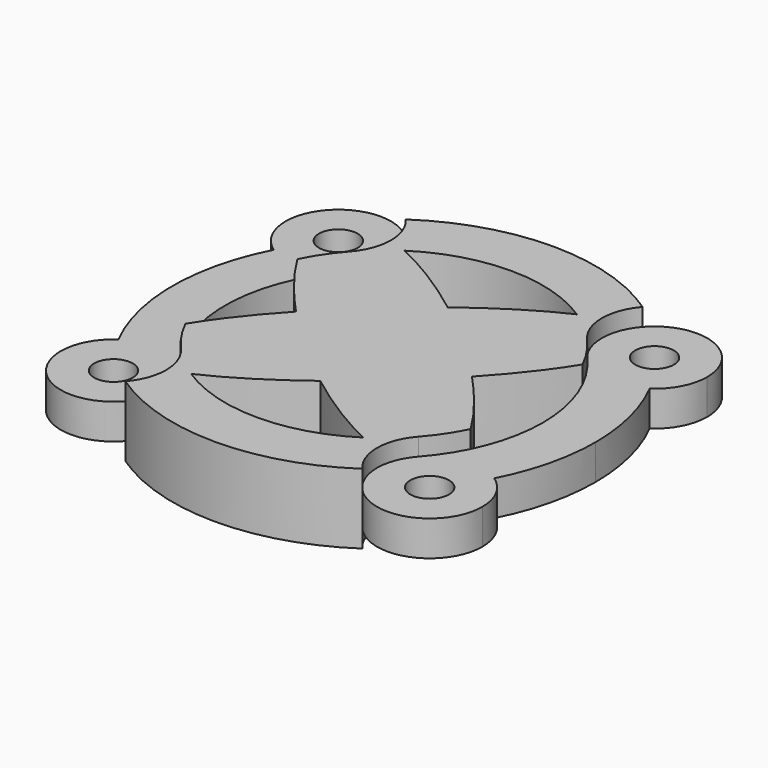
from build123d import *

# Parameters (mm, degrees)
F1_DEPTH = 25.4
F2_R     = 6.985
F3_DEPTH = 25.4
F4_R     = 6.985
F5_DEPTH = 6.35
F7_DEPTH = 6.35


with BuildPart() as f1:
    # F0 (on Top) → F1 (new body)
    with BuildSketch(Plane.XY):
        with BuildLine():
            ThreePointArc((-57.1499998878, 50.8000001262), (-50.3767956165, 57.5233949226), (-42.8188262114, 63.3506955122))
            ThreePointArc((-42.8188262114, 63.3506955122), (-71.3881475209, 63.4561311297), (-67.9339324093, 35.0962010395))
            ThreePointArc((-67.9339324093, 35.0962010395), (-63.0329267619, 43.2852474156), (-57.1499998878, 50.8000001262))
        make_face()
        with BuildLine():
            ThreePointArc((38.1017176106, 51.0558085491), (39.3641043227, 57.6238123477), (42.8188262114, 63.3506955122))
            ThreePointArc((42.8188262114, 63.3506955122), (0, 76.4641255753), (-42.8188262114, 63.3506955122))
            ThreePointArc((-42.8188262114, 63.3506955122), (-39.3641043227, 57.6238123477), (-38.1017176106, 51.0558085491))
            add(Edge.make_bspline(
                [(-31.1596419842, 48.223008274), (-34.8147724634, 49.9032857332), (-38.1017176106, 51.0558085491)],
                knots=[2.3797469471, 2.3797469471, 2.3797469471, 2.5253095942, 2.5253095942, 2.5253095942], degree=2, weights=[1, 0.9973526084, 1]))
            ThreePointArc((-31.1596419842, 48.223008274), (0, 57.4141255753), (31.1596419842, 48.223008274))
            add(Edge.make_bspline(
                [(38.1017176106, 51.0558085491), (34.8147724634, 49.9032857332), (31.1596419842, 48.223008274)],
                knots=[0.6162830594, 0.6162830594, 0.6162830594, 0.7618457065, 0.7618457065, 0.7618457065], degree=2, weights=[1, 0.9973526084, 1]))
        make_face()
        with BuildLine():
            ThreePointArc((67.9339324093, 35.0962010395), (74.0072894084, 41.9267653135), (76.2, 50.8))
            ThreePointArc((76.2, 50.8), (63.8542389324, 68.6313117952), (42.8188262114, 63.3506955122))
            ThreePointArc((42.8188262114, 63.3506955122), (50.37679568, 57.523394867), (57.15, 50.8))
            ThreePointArc((57.15, 50.8), (63.0329268097, 43.285247346), (67.9339324093, 35.0962010395))
        make_face()
        with BuildLine():
            ThreePointArc((55.1707974514, 31.8530937282), (61.8415086314, 32.3367325004), (67.9339324093, 35.0962010395))
            ThreePointArc((67.9339324093, 35.0962010395), (63.0329268097, 43.285247346), (57.15, 50.8))
            add(Edge.make_bspline(
                [(55.1707974514, 31.8530937282), (61.8495524076, 45.5130035415), (57.15, 50.8)],
                knots=[5.6669022478, 5.6669022478, 5.6669022478, 6.2831853072, 6.2831853072, 6.2831853072], degree=2, weights=[1, 0.9528988673, 1]))
        make_face()
        with BuildLine():
            ThreePointArc((57.15, 50.8), (50.37679568, 57.523394867), (42.8188262114, 63.3506955122))
            ThreePointArc((42.8188262114, 63.3506955122), (39.3641043227, 57.6238123477), (38.1017176106, 51.0558085491))
            add(Edge.make_bspline(
                [(57.15, 50.8), (52.4504475924, 56.0869964585), (38.1017176106, 51.0558085491)],
                knots=[0, 0, 0, 0.6162830594, 0.6162830594, 0.6162830594], degree=2, weights=[1, 0.9528988673, 1]))
        make_face()
        with BuildLine():
            ThreePointArc((42.9118518288, 38.1438696019), (39.2984970742, 44.1497110372), (38.1017176106, 51.0558085491))
            add(Edge.make_bspline(
                [(38.1017176106, 51.0558085491), (34.8147724634, 49.9032857332), (31.1596419842, 48.223008274)],
                knots=[0.6162830594, 0.6162830594, 0.6162830594, 0.7618457065, 0.7618457065, 0.7618457065], degree=2, weights=[1, 0.9973526084, 1]))
            ThreePointArc((31.1596419842, 48.223008274), (37.3770492149, 43.5813951999), (42.9118518288, 38.1438696019))
        make_face()
        with BuildLine():
            ThreePointArc((-38.1017176106, 51.0558085491), (-39.3641043227, 57.6238123477), (-42.8188262114, 63.3506955122))
            ThreePointArc((-42.8188262114, 63.3506955122), (-50.3767956165, 57.5233949226), (-57.1499998878, 50.8000001262))
            add(Edge.make_bspline(
                [(-38.1017176106, 51.0558085491), (-52.4504474039, 56.0869963924), (-57.1499998878, 50.8000001262)],
                knots=[2.5253095942, 2.5253095942, 2.5253095942, 3.141592646, 3.141592646, 3.141592646], degree=2, weights=[1, 0.9528988685, 1]))
        make_face()
        with BuildLine():
            add(Edge.make_bspline(
                [(-31.1596419842, 48.223008274), (-34.8147724634, 49.9032857332), (-38.1017176106, 51.0558085491)],
                knots=[2.3797469471, 2.3797469471, 2.3797469471, 2.5253095942, 2.5253095942, 2.5253095942], degree=2, weights=[1, 0.9973526084, 1]))
            ThreePointArc((-38.1017176106, 51.0558085491), (-38.1004294075, 50.9279071577), (-38.1, 50.8))
            ThreePointArc((-38.1, 50.8), (-39.34355171, 44.030000052), (-42.9118529445, 38.1438683467))
            ThreePointArc((-42.9118529445, 38.1438683467), (-37.3770498523, 43.5813946532), (-31.1596419842, 48.223008274))
        make_face()
        with BuildLine():
            ThreePointArc((-38.1, 50.8), (-38.1004294075, 50.9279071577), (-38.1017176106, 51.0558085491))
            add(Edge.make_bspline(
                [(-38.1017176106, 51.0558085491), (-52.4504474039, 56.0869963924), (-57.1499998878, 50.8000001262)],
                knots=[2.5253095942, 2.5253095942, 2.5253095942, 3.141592646, 3.141592646, 3.141592646], degree=2, weights=[1, 0.9528988685, 1]))
            add(Edge.make_bspline(
                [(-57.1499998878, 50.8000001262), (-61.8495524953, 45.513003721), (-55.1707974514, 31.8530937282)],
                knots=[3.141592646, 3.141592646, 3.141592646, 3.757875713, 3.757875713, 3.757875713], degree=2, weights=[1, 0.9528988662, 1]))
            ThreePointArc((-55.1707974514, 31.8530937282), (-48.4526401494, 33.8513000018), (-42.9118529445, 38.1438683467))
            ThreePointArc((-42.9118529445, 38.1438683467), (-39.34355171, 44.030000052), (-38.1, 50.8))
        make_face()
        with BuildLine():
            ThreePointArc((-57.1499998878, 50.8000001262), (-63.0329267619, 43.2852474156), (-67.9339324093, 35.0962010395))
            ThreePointArc((-67.9339324093, 35.0962010395), (-61.8415086314, 32.3367325004), (-55.1707974514, 31.8530937282))
            add(Edge.make_bspline(
                [(-57.1499998878, 50.8000001262), (-61.8495524953, 45.513003721), (-55.1707974514, 31.8530937282)],
                knots=[3.141592646, 3.141592646, 3.141592646, 3.757875713, 3.757875713, 3.757875713], degree=2, weights=[1, 0.9528988662, 1]))
        make_face()
        with BuildLine():
            ThreePointArc((-42.9118529445, 38.1438683467), (-48.4526401494, 33.8513000018), (-55.1707974514, 31.8530937282))
            add(Edge.make_bspline(
                [(-55.1707974514, 31.8530937282), (-53.6408570859, 28.7239405328), (-51.5436352082, 25.291015897)],
                knots=[3.757875713, 3.757875713, 3.757875713, 3.9034383601, 3.9034383601, 3.9034383601], degree=2, weights=[1, 0.9973526084, 1]))
            ThreePointArc((-51.5436352082, 25.291015897), (-47.6629705806, 32.0097336917), (-42.9118529445, 38.1438683467))
        make_face()
        with BuildLine():
            ThreePointArc((-55.1707974514, 31.8530937282), (-61.8415086314, 32.3367325004), (-67.9339324093, 35.0962010395))
            ThreePointArc((-67.9339324093, 35.0962010395), (-76.4641255753, 0), (-67.9339324093, -35.0962010395))
            ThreePointArc((-67.9339324093, -35.0962010395), (-61.8415086314, -32.3367325004), (-55.1707974514, -31.8530937282))
            add(Edge.make_bspline(
                [(-51.5436352082, -25.291015897), (-53.6408570859, -28.7239405328), (-55.1707974514, -31.8530937282)],
                knots=[2.3797469471, 2.3797469471, 2.3797469471, 2.5253095942, 2.5253095942, 2.5253095942], degree=2, weights=[1, 0.9973526084, 1]))
            ThreePointArc((-51.5436352082, -25.291015897), (-57.4141255753, 0), (-51.5436352082, 25.291015897))
            add(Edge.make_bspline(
                [(-55.1707974514, 31.8530937282), (-53.6408570859, 28.7239405328), (-51.5436352082, 25.291015897)],
                knots=[3.757875713, 3.757875713, 3.757875713, 3.9034383601, 3.9034383601, 3.9034383601], degree=2, weights=[1, 0.9973526084, 1]))
        make_face()
        with BuildLine():
            ThreePointArc((-42.9118518976, -38.1438695245), (-48.4526394484, -33.8513003615), (-55.1707974514, -31.8530937282))
            add(Edge.make_bspline(
                [(-55.1707974514, -31.8530937282), (-61.8495523114, -45.5130033448), (-57.1500001229, -50.7999998618)],
                knots=[2.5253095942, 2.5253095942, 2.5253095942, 3.1415926453, 3.1415926453, 3.1415926453], degree=2, weights=[1, 0.9528988686, 1]))
            add(Edge.make_bspline(
                [(-57.1500001229, -50.7999998618), (-52.450447799, -56.0869965309), (-38.1017176106, -51.0558085491)],
                knots=[3.1415926453, 3.1415926453, 3.1415926453, 3.757875713, 3.757875713, 3.757875713], degree=2, weights=[1, 0.9528988661, 1]))
            ThreePointArc((-38.1017176106, -51.0558085491), (-38.1004294075, -50.9279071577), (-38.1, -50.8))
            ThreePointArc((-38.1, -50.8), (-39.34355143, -44.0300007885), (-42.9118518976, -38.1438695245))
        make_face()
        with BuildLine():
            ThreePointArc((-55.1707974514, -31.8530937282), (-61.8415086314, -32.3367325004), (-67.9339324093, -35.0962010395))
            ThreePointArc((-67.9339324093, -35.0962010395), (-63.032926862, -43.2852472698), (-57.1500001229, -50.7999998618))
            add(Edge.make_bspline(
                [(-55.1707974514, -31.8530937282), (-61.8495523114, -45.5130033448), (-57.1500001229, -50.7999998618)],
                knots=[2.5253095942, 2.5253095942, 2.5253095942, 3.1415926453, 3.1415926453, 3.1415926453], degree=2, weights=[1, 0.9528988686, 1]))
        make_face()
        with BuildLine():
            ThreePointArc((-57.1500001229, -50.7999998618), (-63.032926862, -43.2852472698), (-67.9339324093, -35.0962010395))
            ThreePointArc((-67.9339324093, -35.0962010395), (-71.3881475209, -63.4561311297), (-42.8188262114, -63.3506955122))
            ThreePointArc((-42.8188262114, -63.3506955122), (-50.3767957495, -57.523394806), (-57.1500001229, -50.7999998618))
        make_face()
        with BuildLine():
            ThreePointArc((-57.1500001229, -50.7999998618), (-50.3767957495, -57.523394806), (-42.8188262114, -63.3506955122))
            ThreePointArc((-42.8188262114, -63.3506955122), (-39.3641043227, -57.6238123477), (-38.1017176106, -51.0558085491))
            add(Edge.make_bspline(
                [(-57.1500001229, -50.7999998618), (-52.450447799, -56.0869965309), (-38.1017176106, -51.0558085491)],
                knots=[3.1415926453, 3.1415926453, 3.1415926453, 3.757875713, 3.757875713, 3.757875713], degree=2, weights=[1, 0.9528988661, 1]))
        make_face()
        with BuildLine():
            ThreePointArc((76.2, -50.8), (74.0072894084, -41.9267653135), (67.9339324093, -35.0962010395))
            ThreePointArc((67.9339324093, -35.0962010395), (63.0329268097, -43.285247346), (57.15, -50.8))
            ThreePointArc((57.15, -50.8), (50.37679568, -57.523394867), (42.8188262114, -63.3506955122))
            ThreePointArc((42.8188262114, -63.3506955122), (63.8542389324, -68.6313117952), (76.2, -50.8))
        make_face()
        with BuildLine():
            ThreePointArc((42.8188262114, -63.3506955122), (50.37679568, -57.523394867), (57.15, -50.8))
            add(Edge.make_bspline(
                [(38.1017176106, -51.0558085491), (52.4504475924, -56.0869964585), (57.15, -50.8)],
                knots=[5.6669022478, 5.6669022478, 5.6669022478, 6.2831853072, 6.2831853072, 6.2831853072], degree=2, weights=[1, 0.9528988673, 1]))
            ThreePointArc((38.1017176106, -51.0558085491), (39.3641043227, -57.6238123477), (42.8188262114, -63.3506955122))
        make_face()
        with BuildLine():
            add(Edge.make_bspline(
                [(57.15, -50.8), (61.8495524076, -45.5130035415), (55.1707974514, -31.8530937282)],
                knots=[0, 0, 0, 0.6162830594, 0.6162830594, 0.6162830594], degree=2, weights=[1, 0.9528988673, 1]))
            ThreePointArc((55.1707974514, -31.8530937282), (48.4526401707, -33.8512999909), (42.9118529763, -38.1438683109))
            ThreePointArc((42.9118529763, -38.1438683109), (39.2984973756, -44.1497102279), (38.1017176106, -51.0558085491))
            add(Edge.make_bspline(
                [(38.1017176106, -51.0558085491), (52.4504475924, -56.0869964585), (57.15, -50.8)],
                knots=[5.6669022478, 5.6669022478, 5.6669022478, 6.2831853072, 6.2831853072, 6.2831853072], degree=2, weights=[1, 0.9528988673, 1]))
        make_face()
        with BuildLine():
            ThreePointArc((42.9118529763, -38.1438683109), (48.4526401707, -33.8512999909), (55.1707974514, -31.8530937282))
            add(Edge.make_bspline(
                [(55.1707974514, -31.8530937282), (53.6408570859, -28.7239405328), (51.5436352082, -25.291015897)],
                knots=[0.6162830594, 0.6162830594, 0.6162830594, 0.7618457065, 0.7618457065, 0.7618457065], degree=2, weights=[1, 0.9973526084, 1]))
            ThreePointArc((51.5436352082, -25.291015897), (47.6629705939, -32.0097336719), (42.9118529763, -38.1438683109))
        make_face()
        with BuildLine():
            ThreePointArc((76.4641255753, 0), (74.3009799349, 18.0589833799), (67.9339324093, 35.0962010395))
            ThreePointArc((67.9339324093, 35.0962010395), (61.8415086314, 32.3367325004), (55.1707974514, 31.8530937282))
            add(Edge.make_bspline(
                [(51.5436352082, 25.291015897), (53.6408570859, 28.7239405328), (55.1707974514, 31.8530937282)],
                knots=[5.5213396007, 5.5213396007, 5.5213396007, 5.6669022478, 5.6669022478, 5.6669022478], degree=2, weights=[1, 0.9973526084, 1]))
            ThreePointArc((51.5436352082, 25.291015897), (55.9272498878, 12.9817000259), (57.4141255753, 0))
            ThreePointArc((57.4141255753, 0), (55.9272498878, -12.9817000259), (51.5436352082, -25.291015897))
            add(Edge.make_bspline(
                [(55.1707974514, -31.8530937282), (53.6408570859, -28.7239405328), (51.5436352082, -25.291015897)],
                knots=[0.6162830594, 0.6162830594, 0.6162830594, 0.7618457065, 0.7618457065, 0.7618457065], degree=2, weights=[1, 0.9973526084, 1]))
            ThreePointArc((55.1707974514, -31.8530937282), (61.8415086314, -32.3367325004), (67.9339324093, -35.0962010395))
            ThreePointArc((67.9339324093, -35.0962010395), (74.3009799349, -18.0589833799), (76.4641255753, 0))
        make_face()
        with BuildLine():
            ThreePointArc((57.15, -50.8), (63.0329268097, -43.285247346), (67.9339324093, -35.0962010395))
            ThreePointArc((67.9339324093, -35.0962010395), (61.8415086314, -32.3367325004), (55.1707974514, -31.8530937282))
            add(Edge.make_bspline(
                [(57.15, -50.8), (61.8495524076, -45.5130035415), (55.1707974514, -31.8530937282)],
                knots=[0, 0, 0, 0.6162830594, 0.6162830594, 0.6162830594], degree=2, weights=[1, 0.9528988673, 1]))
        make_face()
        with BuildLine():
            add(Edge.make_bspline(
                [(57.15, 50.8), (52.4504475924, 56.0869964585), (38.1017176106, 51.0558085491)],
                knots=[0, 0, 0, 0.6162830594, 0.6162830594, 0.6162830594], degree=2, weights=[1, 0.9528988673, 1]))
            ThreePointArc((38.1017176106, 51.0558085491), (39.2984970742, 44.1497110372), (42.9118518288, 38.1438696019))
            ThreePointArc((42.9118518288, 38.1438696019), (48.4526394023, 33.8513003852), (55.1707974514, 31.8530937282))
            add(Edge.make_bspline(
                [(55.1707974514, 31.8530937282), (61.8495524076, 45.5130035415), (57.15, 50.8)],
                knots=[5.6669022478, 5.6669022478, 5.6669022478, 6.2831853072, 6.2831853072, 6.2831853072], degree=2, weights=[1, 0.9528988673, 1]))
        make_face()
        with BuildLine():
            add(Edge.make_bspline(
                [(51.5436352082, 25.291015897), (53.6408570859, 28.7239405328), (55.1707974514, 31.8530937282)],
                knots=[5.5213396007, 5.5213396007, 5.5213396007, 5.6669022478, 5.6669022478, 5.6669022478], degree=2, weights=[1, 0.9973526084, 1]))
            ThreePointArc((55.1707974514, 31.8530937282), (48.4526394023, 33.8513003852), (42.9118518288, 38.1438696019))
            ThreePointArc((42.9118518288, 38.1438696019), (47.6629701124, 32.0097343888), (51.5436352082, 25.291015897))
        make_face()
        with BuildLine():
            ThreePointArc((-38.1017176106, -51.0558085491), (-39.3641043227, -57.6238123477), (-42.8188262114, -63.3506955122))
            ThreePointArc((-42.8188262114, -63.3506955122), (0, -76.4641255753), (42.8188262114, -63.3506955122))
            ThreePointArc((42.8188262114, -63.3506955122), (39.3641043227, -57.6238123477), (38.1017176106, -51.0558085491))
            add(Edge.make_bspline(
                [(31.1596419842, -48.223008274), (34.8147724634, -49.9032857332), (38.1017176106, -51.0558085491)],
                knots=[5.5213396007, 5.5213396007, 5.5213396007, 5.6669022478, 5.6669022478, 5.6669022478], degree=2, weights=[1, 0.9973526084, 1]))
            ThreePointArc((31.1596419842, -48.223008274), (0, -57.4141255753), (-31.1596419842, -48.223008274))
            add(Edge.make_bspline(
                [(-38.1017176106, -51.0558085491), (-34.8147724634, -49.9032857332), (-31.1596419842, -48.223008274)],
                knots=[3.757875713, 3.757875713, 3.757875713, 3.9034383601, 3.9034383601, 3.9034383601], degree=2, weights=[1, 0.9973526084, 1]))
        make_face()
        with BuildLine():
            ThreePointArc((38.1017176106, -51.0558085491), (39.2984973756, -44.1497102279), (42.9118529763, -38.1438683109))
            ThreePointArc((42.9118529763, -38.1438683109), (37.3770498705, -43.5813946376), (31.1596419842, -48.223008274))
            add(Edge.make_bspline(
                [(31.1596419842, -48.223008274), (34.8147724634, -49.9032857332), (38.1017176106, -51.0558085491)],
                knots=[5.5213396007, 5.5213396007, 5.5213396007, 5.6669022478, 5.6669022478, 5.6669022478], degree=2, weights=[1, 0.9973526084, 1]))
        make_face()
        with BuildLine():
            ThreePointArc((-31.1596419842, -48.223008274), (-37.3770492542, -43.5813951661), (-42.9118518976, -38.1438695245))
            ThreePointArc((-42.9118518976, -38.1438695245), (-39.34355143, -44.0300007885), (-38.1, -50.8))
            ThreePointArc((-38.1, -50.8), (-38.1004294075, -50.9279071577), (-38.1017176106, -51.0558085491))
            add(Edge.make_bspline(
                [(-38.1017176106, -51.0558085491), (-34.8147724634, -49.9032857332), (-31.1596419842, -48.223008274)],
                knots=[3.757875713, 3.757875713, 3.757875713, 3.9034383601, 3.9034383601, 3.9034383601], degree=2, weights=[1, 0.9973526084, 1]))
        make_face()
        with BuildLine():
            add(Edge.make_bspline(
                [(-51.5436352082, -25.291015897), (-53.6408570859, -28.7239405328), (-55.1707974514, -31.8530937282)],
                knots=[2.3797469471, 2.3797469471, 2.3797469471, 2.5253095942, 2.5253095942, 2.5253095942], degree=2, weights=[1, 0.9973526084, 1]))
            ThreePointArc((-55.1707974514, -31.8530937282), (-48.4526394484, -33.8513003615), (-42.9118518976, -38.1438695245))
            ThreePointArc((-42.9118518976, -38.1438695245), (-47.6629701413, -32.0097343458), (-51.5436352082, -25.291015897))
        make_face()
        with BuildLine():
            add(Edge.make_bspline(
                [(0, 28.7906564504), (-17.2570551039, 15.6257643854), (-31.7963289723, 0)],
                knots=[1.3179615541, 1.3179615541, 1.3179615541, 1.8868284832, 1.8868284832, 1.8868284832], degree=2, weights=[1, 0.9598207843, 1]))
            add(Edge.make_bspline(
                [(0, 28.7906564504), (-16.8493165476, 41.6444969454), (-31.1596419842, 48.223008274)],
                knots=[1.8236310995, 1.8236310995, 1.8236310995, 2.3797469471, 2.3797469471, 2.3797469471], degree=2, weights=[1, 0.9615903293, 1]))
            ThreePointArc((-31.1596419842, 48.223008274), (-37.3770498523, 43.5813946532), (-42.9118529445, 38.1438683467))
            ThreePointArc((-42.9118529445, 38.1438683467), (-47.6629705806, 32.0097336917), (-51.5436352082, 25.291015897))
            add(Edge.make_bspline(
                [(-51.5436352082, 25.291015897), (-44.3072469413, 13.4458335537), (-31.7963289723, 0)],
                knots=[3.9034383601, 3.9034383601, 3.9034383601, 4.3963568239, 4.3963568239, 4.3963568239], degree=2, weights=[1, 0.9697823463, 1]))
        make_face()
        with BuildLine():
            add(Edge.make_bspline(
                [(31.7963289723, 0), (17.2570551039, 15.6257643854), (0, 28.7906564504)],
                knots=[1.2547641704, 1.2547641704, 1.2547641704, 1.8236310995, 1.8236310995, 1.8236310995], degree=2, weights=[1, 0.9598207843, 1]))
            add(Edge.make_bspline(
                [(0, 28.7906564504), (-17.2570551039, 15.6257643854), (-31.7963289723, 0)],
                knots=[1.3179615541, 1.3179615541, 1.3179615541, 1.8868284832, 1.8868284832, 1.8868284832], degree=2, weights=[1, 0.9598207843, 1]))
            add(Edge.make_bspline(
                [(-31.7963289723, 0), (-17.2570551039, -15.6257643854), (0, -28.7906564504)],
                knots=[4.3963568239, 4.3963568239, 4.3963568239, 4.9652237531, 4.9652237531, 4.9652237531], degree=2, weights=[1, 0.9598207843, 1]))
            add(Edge.make_bspline(
                [(0, -28.7906564504), (17.2570551039, -15.6257643854), (31.7963289723, 0)],
                knots=[4.4595542076, 4.4595542076, 4.4595542076, 5.0284211368, 5.0284211368, 5.0284211368], degree=2, weights=[1, 0.9598207843, 1]))
        make_face()
        with BuildLine():
            add(Edge.make_bspline(
                [(51.5436352082, -25.291015897), (44.3072469413, -13.4458335537), (31.7963289723, 0)],
                knots=[0.7618457065, 0.7618457065, 0.7618457065, 1.2547641704, 1.2547641704, 1.2547641704], degree=2, weights=[1, 0.9697823463, 1]))
            add(Edge.make_bspline(
                [(0, -28.7906564504), (17.2570551039, -15.6257643854), (31.7963289723, 0)],
                knots=[4.4595542076, 4.4595542076, 4.4595542076, 5.0284211368, 5.0284211368, 5.0284211368], degree=2, weights=[1, 0.9598207843, 1]))
            add(Edge.make_bspline(
                [(0, -28.7906564504), (16.8493165476, -41.6444969454), (31.1596419842, -48.223008274)],
                knots=[4.9652237531, 4.9652237531, 4.9652237531, 5.5213396007, 5.5213396007, 5.5213396007], degree=2, weights=[1, 0.9615903293, 1]))
            ThreePointArc((31.1596419842, -48.223008274), (37.3770498705, -43.5813946376), (42.9118529763, -38.1438683109))
            ThreePointArc((42.9118529763, -38.1438683109), (47.6629705939, -32.0097336719), (51.5436352082, -25.291015897))
        make_face()
        with BuildLine():
            ThreePointArc((51.5436352082, 25.291015897), (47.6629701124, 32.0097343888), (42.9118518288, 38.1438696019))
            ThreePointArc((42.9118518288, 38.1438696019), (37.3770492149, 43.5813951999), (31.1596419842, 48.223008274))
            add(Edge.make_bspline(
                [(31.1596419842, 48.223008274), (16.8493165476, 41.6444969454), (0, 28.7906564504)],
                knots=[0.7618457065, 0.7618457065, 0.7618457065, 1.3179615541, 1.3179615541, 1.3179615541], degree=2, weights=[1, 0.9615903293, 1]))
            add(Edge.make_bspline(
                [(31.7963289723, 0), (17.2570551039, 15.6257643854), (0, 28.7906564504)],
                knots=[1.2547641704, 1.2547641704, 1.2547641704, 1.8236310995, 1.8236310995, 1.8236310995], degree=2, weights=[1, 0.9598207843, 1]))
            add(Edge.make_bspline(
                [(31.7963289723, 0), (44.3072469413, 13.4458335537), (51.5436352082, 25.291015897)],
                knots=[5.0284211368, 5.0284211368, 5.0284211368, 5.5213396007, 5.5213396007, 5.5213396007], degree=2, weights=[1, 0.9697823463, 1]))
        make_face()
        with BuildLine():
            add(Edge.make_bspline(
                [(-31.7963289723, 0), (-17.2570551039, -15.6257643854), (0, -28.7906564504)],
                knots=[4.3963568239, 4.3963568239, 4.3963568239, 4.9652237531, 4.9652237531, 4.9652237531], degree=2, weights=[1, 0.9598207843, 1]))
            add(Edge.make_bspline(
                [(-31.7963289723, 0), (-44.3072469413, -13.4458335537), (-51.5436352082, -25.291015897)],
                knots=[1.8868284832, 1.8868284832, 1.8868284832, 2.3797469471, 2.3797469471, 2.3797469471], degree=2, weights=[1, 0.9697823463, 1]))
            ThreePointArc((-51.5436352082, -25.291015897), (-47.6629701413, -32.0097343458), (-42.9118518976, -38.1438695245))
            ThreePointArc((-42.9118518976, -38.1438695245), (-37.3770492542, -43.5813951661), (-31.1596419842, -48.223008274))
            add(Edge.make_bspline(
                [(-31.1596419842, -48.223008274), (-16.8493165476, -41.6444969454), (0, -28.7906564504)],
                knots=[3.9034383601, 3.9034383601, 3.9034383601, 4.4595542076, 4.4595542076, 4.4595542076], degree=2, weights=[1, 0.9615903293, 1]))
        make_face()
    extrude(amount=F1_DEPTH)

    # F2 (on face) → F3 (cut)
    with BuildSketch(Plane.XY.offset(25.4)):
        with Locations((-57.15, 50.8)):
            Circle(F2_R)
        with Locations((-57.15, -50.8)):
            Circle(F2_R)
        with Locations((57.15, -50.8)):
            Circle(F2_R)
        with Locations((57.15, 50.8)):
            Circle(F2_R)
    extrude(amount=-F3_DEPTH, mode=Mode.SUBTRACT)

    # F4 (on face) → F5 (cut)
    with BuildSketch(Plane.XY.offset(25.4)):
        with BuildLine():
            ThreePointArc((-51.5436352082, 25.291015897), (-47.6629703853, 32.0097339825), (-42.9118524791, 38.1438688703))
            ThreePointArc((-42.9118524791, 38.1438688703), (-38.1001297285, 50.7296960956), (-42.8188262114, 63.3506955122))
            ThreePointArc((-42.8188262114, 63.3506955122), (-71.3881475209, 63.4561311297), (-67.9339324093, 35.0962010395))
            ThreePointArc((-67.9339324093, 35.0962010395), (-76.4641255753, 0), (-67.9339324093, -35.0962010395))
            ThreePointArc((-67.9339324093, -35.0962010395), (-71.3881475209, -63.4561311297), (-42.8188262114, -63.3506955122))
            ThreePointArc((-42.8188262114, -63.3506955122), (-38.1001297285, -50.7296960956), (-42.9118524791, -38.1438688703))
            ThreePointArc((-42.9118524791, -38.1438688703), (-47.6629703853, -32.0097339825), (-51.5436352082, -25.291015897))
            ThreePointArc((-51.5436352082, -25.291015897), (-57.4141255753, 0), (-51.5436352082, 25.291015897))
        make_face()
        with Locations((-57.15, -50.8)):
            Circle(F4_R, mode=Mode.SUBTRACT)
        with Locations((-57.15, 50.8)):
            Circle(F4_R, mode=Mode.SUBTRACT)
        with BuildLine():
            ThreePointArc((76.2, 50.8), (63.8542389324, 68.6313117952), (42.8188262114, 63.3506955122))
            ThreePointArc((42.8188262114, 63.3506955122), (38.1001297285, 50.7296960956), (42.9118524791, 38.1438688703))
            ThreePointArc((42.9118524791, 38.1438688703), (47.6629703853, 32.0097339825), (51.5436352082, 25.291015897))
            ThreePointArc((51.5436352082, 25.291015897), (57.4141255753, 0), (51.5436352082, -25.291015897))
            ThreePointArc((51.5436352082, -25.291015897), (47.6629703853, -32.0097339825), (42.9118524791, -38.1438688703))
            ThreePointArc((42.9118524791, -38.1438688703), (38.1001297285, -50.7296960956), (42.8188262114, -63.3506955122))
            ThreePointArc((42.8188262114, -63.3506955122), (63.854238955, -68.6313117867), (76.2, -50.7999999518))
            ThreePointArc((76.2, -50.7999999518), (74.0072893972, -41.9267652922), (67.9339324093, -35.0962010395))
            ThreePointArc((67.9339324093, -35.0962010395), (73.4862819613, -21.1312295786), (76.2, -6.35))
            Line((76.2, -6.35), (76.2, 6.35))
            ThreePointArc((76.2, 6.35), (73.4862819613, 21.1312295786), (67.9339324093, 35.0962010395))
            ThreePointArc((67.9339324093, 35.0962010395), (74.0072894084, 41.9267653135), (76.2, 50.8))
        make_face()
        with Locations((57.15, -50.8)):
            Circle(F4_R, mode=Mode.SUBTRACT)
        with Locations((57.15, 50.8)):
            Circle(F4_R, mode=Mode.SUBTRACT)
        with Locations((-57.15, 50.8)):
            Circle(F4_R)
        with Locations((-57.15, -50.8)):
            Circle(F4_R)
        with Locations((57.15, -50.8)):
            Circle(F4_R)
        with Locations((57.15, 50.8)):
            Circle(F4_R)
        with BuildLine():
            ThreePointArc((76.2, -6.35), (76.4641255753, 0), (76.2, 6.35))
            Line((76.2, 6.35), (76.2, -6.35))
        make_face()
    extrude(amount=-F5_DEPTH, mode=Mode.SUBTRACT)

    # F6 (on face) → F7 (cut)
    with BuildSketch(Plane.XY):
        with BuildLine():
            ThreePointArc((-51.5436352082, -25.291015897), (-57.4141255753, 0), (-51.5436352082, 25.291015897))
            ThreePointArc((-51.5436352082, 25.291015897), (-47.6629703853, 32.0097339825), (-42.9118524791, 38.1438688703))
            ThreePointArc((-42.9118524791, 38.1438688703), (-38.1001297285, 50.7296960956), (-42.8188262114, 63.3506955122))
            ThreePointArc((-42.8188262114, 63.3506955122), (-71.3881475209, 63.4561311297), (-67.9339324093, 35.0962010395))
            ThreePointArc((-67.9339324093, 35.0962010395), (-76.4641255753, 0), (-67.9339324093, -35.0962010395))
            ThreePointArc((-67.9339324093, -35.0962010395), (-71.3881475209, -63.4561311297), (-42.8188262114, -63.3506955122))
            ThreePointArc((-42.8188262114, -63.3506955122), (-38.1001297285, -50.7296960956), (-42.9118524791, -38.1438688703))
            ThreePointArc((-42.9118524791, -38.1438688703), (-47.6629703853, -32.0097339825), (-51.5436352082, -25.291015897))
        make_face()
        with BuildLine():
            ThreePointArc((42.8188262114, -63.3506955122), (71.3881475209, -63.4561311297), (67.9339324093, -35.0962010395))
            ThreePointArc((67.9339324093, -35.0962010395), (76.4641255753, 0), (67.9339324093, 35.0962010395))
            ThreePointArc((67.9339324093, 35.0962010395), (71.3881475209, 63.4561311297), (42.8188262114, 63.3506955122))
            ThreePointArc((42.8188262114, 63.3506955122), (38.1001297285, 50.7296960956), (42.9118524791, 38.1438688703))
            ThreePointArc((42.9118524791, 38.1438688703), (47.6629703853, 32.0097339825), (51.5436352082, 25.291015897))
            ThreePointArc((51.5436352082, 25.291015897), (57.4141255753, 0), (51.5436352082, -25.291015897))
            ThreePointArc((51.5436352082, -25.291015897), (47.6629703853, -32.0097339825), (42.9118524791, -38.1438688703))
            ThreePointArc((42.9118524791, -38.1438688703), (38.1001297285, -50.7296960956), (42.8188262114, -63.3506955122))
        make_face()
    extrude(amount=F7_DEPTH, mode=Mode.SUBTRACT)


solid = f1.part
